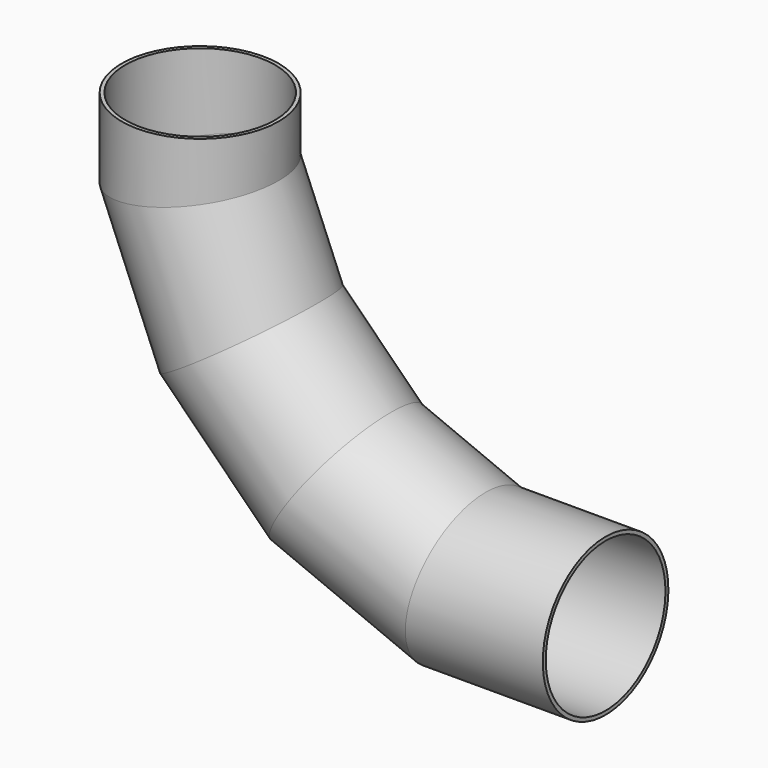
from build123d import *

# Parameters (mm, degrees)
F1_R   = 213
F1_R_2 = 203


with BuildPart() as f2:
    # F2: sweep along a path in F0
    with BuildLine(Plane.XZ) as f2_path:
        Line((0, 0), (0, -183.805903785))
        Line((0, -183.805903785), (139.1482145694, -519.7394105784))
        Line((139.1482145694, -519.7394105784), (396.2605894216, -776.8517854306))
        Line((396.2605894216, -776.8517854306), (732.194096215, -916))
        Line((732.194096215, -916), (1100, -916))
    # F1 (on Top) → F2 (sweep)
    with BuildSketch(Plane.XY):
        Circle(F1_R)
        Circle(F1_R_2, mode=Mode.SUBTRACT)
    sweep(path=f2_path.line, transition=Transition.RIGHT)


solid = f2.part
